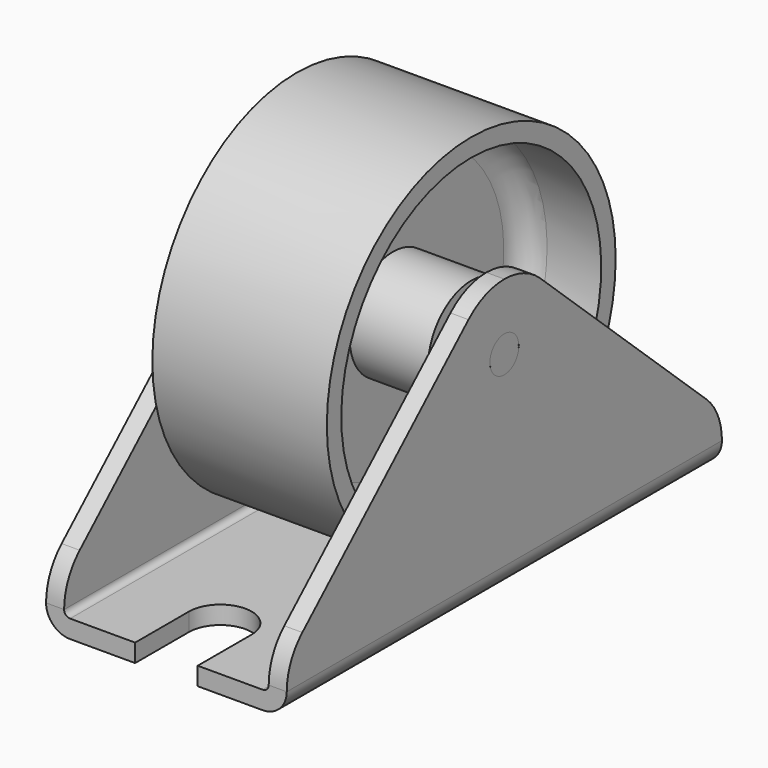
from build123d import *

# Parameters (mm, degrees)
F0_W          = 1.5
F0_H          = 1.5
F0_H_2        = 4
F1_DEPTH      = 22.6
F1_DEPTH_BACK = 22.6
F2_R          = 1.5
F3_DEPTH      = 25
F4_R          = 2.6
F5_DEPTH      = 25


with BuildPart() as f1:
    # F0 (on Front) → F1 (new body, two sides)
    with BuildSketch(Plane.XZ) as f1_sk:
        with BuildLine():
            ThreePointArc((-10, 2), (-9.414214, 0.585786), (-8, 0))
            Line((-8, 0), (8, 0))
            ThreePointArc((8, 0), (9.414214, 0.585786), (10, 2))
            Line((10, 2), (10, 17.5))
            Line((10, 17.5), (8.5, 17.5))
            Line((8.5, 17.5), (8.5, 2))
            ThreePointArc((8.5, 2), (8.353553, 1.646447), (8, 1.5))
            Line((8, 1.5), (-8, 1.5))
            ThreePointArc((-8, 1.5), (-8.353553, 1.646447), (-8.5, 2))
            Line((-8.5, 2), (-8.5, 17.5))
            Line((-8.5, 17.5), (-10, 17.5))
            Line((-10, 17.5), (-10, 2))
        make_face()
        with Locations((-9.25, 18.25)):
            Rectangle(F0_W, F0_H)
        with Locations((-9.25, 21)):
            Rectangle(F0_W, F0_H_2)
        with Locations((9.25, 18.25)):
            Rectangle(F0_W, F0_H)
        with Locations((9.25, 21)):
            Rectangle(F0_W, F0_H_2)
    extrude(amount=F1_DEPTH)
    extrude(f1_sk.sketch, amount=-F1_DEPTH_BACK)

    # F2 (on face) → F3 (cut)
    with BuildSketch(Plane(origin=(-10, 0, 0), x_dir=(0, -1, 0), z_dir=(-1, 0, 0))):
        with BuildLine():
            ThreePointArc((0, 23), (1.997498, 22.624451), (3.722211, 21.549092))
            Line((3.722211, 21.549092), (20.983828, 5.680992))
            ThreePointArc((20.983828, 5.680992), (22.178162, 4.010082), (22.6, 2))
            Line((22.6, 2), (22.6, 23))
            Line((22.6, 23), (0, 23))
        make_face()
        with BuildLine():
            ThreePointArc((-3.722211, 21.549092), (-1.997498, 22.624451), (0, 23))
            Line((0, 23), (-22.6, 23))
            Line((-22.6, 23), (-22.6, 2))
            ThreePointArc((-22.6, 2), (-22.178162, 4.010082), (-20.983828, 5.680992))
            Line((-20.983828, 5.680992), (-3.722211, 21.549092))
        make_face()
        with Locations((0, 17.5)):
            Circle(F2_R)
    extrude(amount=-F3_DEPTH, mode=Mode.SUBTRACT)

    # F4 (on face) → F5 (cut)
    with BuildSketch(Plane(origin=(0, 0, 0), x_dir=(1, 0, 0), z_dir=(0, 0, -1))):
        with BuildLine():
            ThreePointArc((-2.6, 17), (0, 14.4), (2.6, 17))
            ThreePointArc((2.6, 17), (0, 19.6), (-2.6, 17))
        make_face()
        with BuildLine():
            ThreePointArc((-2.6, 17), (0, 19.6), (2.6, 17))
            Line((2.6, 17), (2.6, 22.6))
            Line((2.6, 22.6), (-2.6, 22.6))
            Line((-2.6, 22.6), (-2.6, 17))
        make_face()
        with Locations((0, -17)):
            Circle(F4_R)
    extrude(amount=-F5_DEPTH, mode=Mode.SUBTRACT)


with BuildPart() as f6:
    # F0 (on Front) → F6 (revolve)
    with BuildSketch(Plane.XZ):
        with BuildLine():
            Line((-8.5, 19), (-8.5, 17.5))
            Line((-8.5, 17.5), (0, 17.5))
            Line((0, 17.5), (8.5, 17.5))
            Line((8.5, 17.5), (8.5, 19))
            Line((8.5, 19), (7.25, 19))
            Line((7.25, 19), (7.25, 22))
            Line((7.25, 22), (0.75, 22))
            Line((0.75, 22), (0.75, 29))
            ThreePointArc((0.75, 29), (1.335786, 30.414214), (2.75, 31))
            Line((2.75, 31), (7.25, 31))
            Line((7.25, 31), (7.25, 32.5))
            Line((7.25, 32.5), (0, 32.5))
            Line((0, 32.5), (-7.25, 32.5))
            Line((-7.25, 32.5), (-7.25, 31))
            Line((-7.25, 31), (-2.75, 31))
            ThreePointArc((-2.75, 31), (-1.335786, 30.414214), (-0.75, 29))
            Line((-0.75, 29), (-0.75, 22))
            Line((-0.75, 22), (-7.25, 22))
            Line((-7.25, 22), (-7.25, 19))
            Line((-7.25, 19), (-8.5, 19))
        make_face()
        with Locations((9.25, 18.25)):
            Rectangle(F0_W, F0_H)
        with Locations((-9.25, 18.25)):
            Rectangle(F0_W, F0_H)
    revolve(axis=Axis((4.25, 0, 17.5), (-1, 0, 0)))


solid = Compound([f1.part, f6.part])
